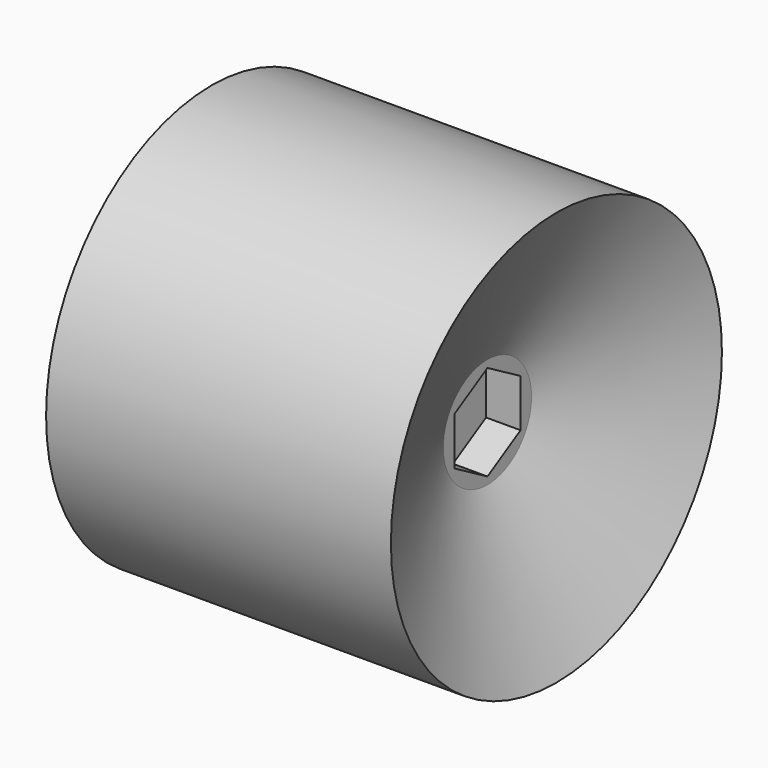
from build123d import *

# Parameters (mm, degrees)
F3_DEPTH = 5
F4_R     = 4
F5_DEPTH = 10


with BuildPart() as f1:
    # F0 (on Front) → F1 (revolve)
    with BuildSketch(Plane.XZ):
        Polygon((10, 30), (-40, 30), (-40, 0), (0, 0), (0, 8), align=None)
    revolve(axis=Axis((-2.905972, 0, 0), (1, 0, 0)))

    # F2 (on face) → F3 (cut)
    with BuildSketch(Plane.YZ):
        Polygon((0, -6.928203), (6, -3.464102), (6, 3.464102), (0, 6.928203), (-6, 3.464102), (-6, -3.464102), align=None)
    extrude(amount=-F3_DEPTH, mode=Mode.SUBTRACT)

    # F4 (on face) → F5 (join)
    with BuildSketch(Plane(origin=(-40, 0, 0), x_dir=(0, -1, 0), z_dir=(-1, 0, 0))):
        Circle(F4_R)
    extrude(amount=F5_DEPTH)


solid = f1.part
